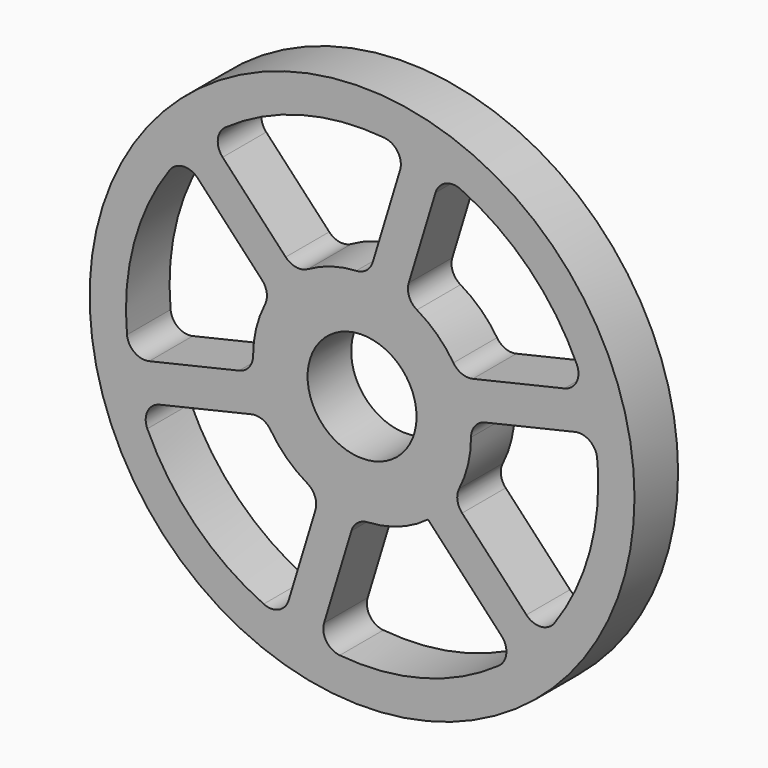
from build123d import *

# Parameters (mm, degrees)
F0_R     = 75
F0_R_2   = 15
F1_DEPTH = 15
F3_DEPTH = 25
F4_R     = 5
F5_R     = 5


with BuildPart() as f1:
    # F0 (on Front) → F1 (new body)
    with BuildSketch(Plane.XZ):
        Circle(F0_R)
        Circle(F0_R_2, mode=Mode.SUBTRACT)
    extrude(amount=-F1_DEPTH)

    # F2 (on face) → F3 (cut)
    with BuildSketch(Plane.XZ):
        with BuildLine():
            ThreePointArc((-29.761636, -3.774261), (-29.2124, 6.829033), (-25.004101, 16.57694))
            Line((-25.004101, 16.57694), (-49.222236, 42.45199))
            ThreePointArc((-49.222236, 42.45199), (-62.729048, 17.031339), (-63.932898, -11.729645))
            Line((-63.932898, -11.729645), (-29.761636, -3.774261))
        make_face()
        with BuildLine():
            ThreePointArc((-18.149424, 23.887202), (-8.692084, 28.713197), (1.854001, 29.942657))
            Line((1.854001, 29.942657), (12.153383, 63.853702))
            ThreePointArc((12.153383, 63.853702), (-16.614952, 62.840619), (-42.12462, 49.502691))
            Line((-42.12462, 49.502691), (-18.149424, 23.887202))
        make_face()
        with BuildLine():
            ThreePointArc((11.612212, 27.661463), (20.520316, 21.884164), (26.858102, 13.365716))
            Line((26.858102, 13.365716), (61.37562, 21.401712))
            ThreePointArc((61.37562, 21.401712), (46.114096, 45.80928), (21.808278, 61.232336))
            Line((21.808278, 61.232336), (11.612212, 27.661463))
        make_face()
        with BuildLine():
            ThreePointArc((29.761636, 3.774261), (29.94035, 1.89089), (30, 0))
            ThreePointArc((30, 0), (28.723884, -8.656702), (25.004101, -16.57694))
            Line((25.004101, -16.57694), (49.222236, -42.45199))
            ThreePointArc((49.222236, -42.45199), (60.928012, -22.644587), (65, 0))
            ThreePointArc((65, 0), (64.732675, 5.889043), (63.932898, 11.729645))
            Line((63.932898, 11.729645), (29.761636, 3.774261))
        make_face()
        with BuildLine():
            Line((42.12462, -49.502691), (18.149424, -23.887202))
            ThreePointArc((18.149424, -23.887202), (8.692084, -28.713197), (-1.854001, -29.942657))
            Line((-1.854001, -29.942657), (-12.153383, -63.853702))
            ThreePointArc((-12.153383, -63.853702), (16.614952, -62.840619), (42.12462, -49.502691))
        make_face()
        with BuildLine():
            Line((-21.808278, -61.232336), (-11.612212, -27.661463))
            ThreePointArc((-11.612212, -27.661463), (-20.520316, -21.884164), (-26.858102, -13.365716))
            Line((-26.858102, -13.365716), (-61.37562, -21.401712))
            ThreePointArc((-61.37562, -21.401712), (-46.114096, -45.80928), (-21.808278, -61.232336))
        make_face()
    extrude(amount=-F3_DEPTH, mode=Mode.SUBTRACT)

    # F4
    f4_edges = [f1.edges().sort_by_distance(p)[0] for p in [
        (-63.932898, 7.5, -11.729645),
        (-49.222236, 7.5, 42.45199),
        (12.153383, 7.5, 63.853702),
        (-42.12462, 7.5, 49.502691),
        (21.808278, 7.5, 61.232336),
        (61.37562, 7.5, 21.401712),
        (63.932898, 7.5, 11.729645),
        (49.222236, 7.5, -42.45199),
        (42.12462, 7.5, -49.502691),
        (-12.153383, 7.5, -63.853702),
        (-21.808278, 7.5, -61.232336),
        (-61.37562, 7.5, -21.401712),
    ]]
    fillet(f4_edges, radius=F4_R)

    # F5
    f5_edges = [f1.edges().sort_by_distance(p)[0] for p in [
        (25.004101, 7.5, -16.57694),
        (29.761636, 7.5, 3.774261),
        (-1.854001, 7.5, -29.942657),
        (-11.612212, 7.5, -27.661463),
        (-26.858102, 7.5, -13.365716),
        (-29.761636, 7.5, -3.774261),
        (-25.004101, 7.5, 16.57694),
        (-18.149424, 7.5, 23.887202),
        (1.854001, 7.5, 29.942657),
        (11.612212, 7.5, 27.661463),
        (26.858102, 7.5, 13.365716),
    ]]
    fillet(f5_edges, radius=F5_R)


solid = f1.part
